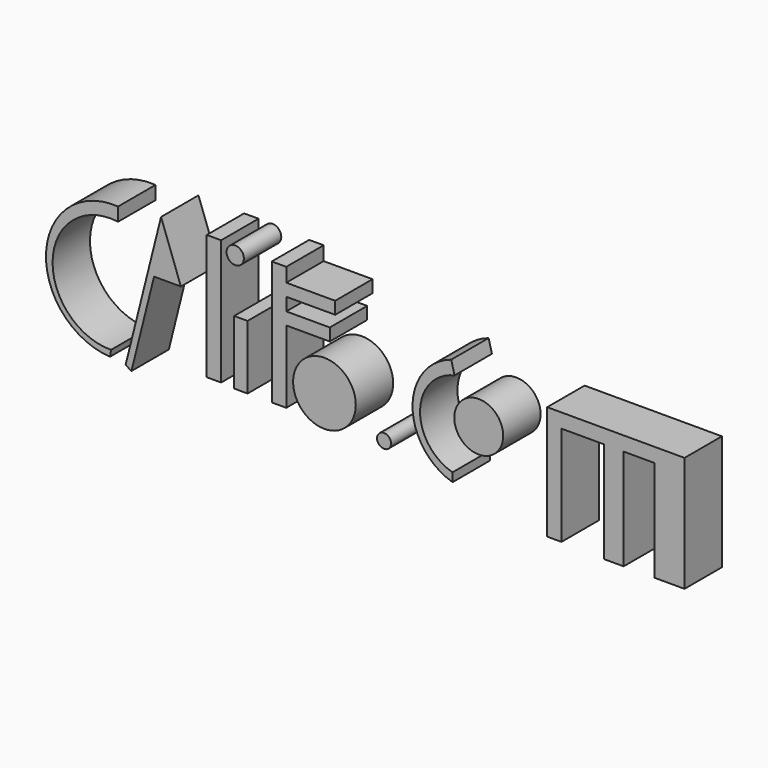
from build123d import *

# Parameters (mm, degrees)
F1_DEPTH = 25.4
F0_W     = 7.8298877925
F0_H     = 68.0653508753
F0_R     = 4.7084777796
F0_W_2   = 7.884208113
F0_H_2   = 7.592190057
F0_H_3   = 6.7161675543
F0_H_4   = 7.0081744343
F0_H_5   = 6.7261058703
F0_R_2   = 17.0200115099
F2_R     = 3.8073110524
F3_DEPTH = 25.4
F2_R_2   = 13.2954407617
F2_W     = 23.2299566269
F2_H     = 7.7433204278
F2_W_2   = 16.1905884743
F2_H_2   = 54.9071850255


with BuildPart() as f1:
    # F0 (on Front) → F1 (new body)
    with BuildSketch(Plane.XZ):
        with BuildLine():
            Line((-27.8866961598, 34.3108586967), (-27.8866961598, 41.6110418737))
            ThreePointArc((-27.8866961598, 41.6110418737), (-67.0002469524, 7.1707083067), (-32.2668068111, -31.682793051))
            Line((-32.2668068111, -31.682793051), (-31.682793051, -28.1787049025))
            ThreePointArc((-31.682793051, -28.1787049025), (-63.4111898789, 5.1088059067), (-27.8866961598, 34.3108586967))
        make_face()
    extrude(amount=F1_DEPTH)


with BuildPart() as f1b:
    # F0 (on Front) → F1, piece 2 (new body)
    with BuildSketch(Plane.XZ):
        Polygon((6.2506846873, 14.4444245979), (-4.5261150226, 44.2391037941), (-11.9747848216, 14.4444245979), (-8.3222091198, 14.4444245979), (0, 14.4444245979), align=None)
        Polygon((-8.3222091198, 14.4444245979), (-11.9747848216, 14.4444245979), (-23.7985961139, -32.8508205712), (-20.6185314836, -34.7408648572), align=None)
    extrude(amount=F1_DEPTH)


with BuildPart() as f1c:
    # F0 (on Front) → F1, piece 3 (new body)
    with BuildSketch(Plane.XZ):
        with Locations((24.209449999, 9.6500674263)):
            Rectangle(F0_W, F0_H)
    extrude(amount=F1_DEPTH)


with BuildPart() as f1d:
    # F0 (on Front) → F1, piece 4 (new body)
    with BuildSketch(Plane.XZ):
        Polygon((42.4870625138, 9.7822444513), (35.1868793368, 9.7822444513), (35.1868793368, -24.3826080114), (35.1868793368, -24.9666236341), (42.4870625138, -24.9666236341), align=None)
    extrude(amount=F1_DEPTH)


with BuildPart() as f1e:
    # F0 (on Front) → F1, piece 5 (new body)
    with BuildSketch(Plane.XZ):
        with Locations((35.7708968222, 38.982976228)):
            Circle(F0_R)
    extrude(amount=F1_DEPTH)


with BuildPart() as f1f:
    # F0 (on Front) → F1, piece 6 (new body)
    with BuildSketch(Plane.XZ):
        with Locations((59.5694910735, 38.6909674853)):
            Rectangle(F0_W_2, F0_H_2)
        with Locations((59.5694910735, 31.5367886797)):
            Rectangle(F0_W_2, F0_H_3)
        with Locations((59.5694910735, 24.6746176854)):
            Rectangle(F0_W_2, F0_H_4)
        Polygon((75.775898993, 34.8948724568), (63.51159513, 34.8948724568), (63.51159513, 28.1787049025), (90.0842547417, 28.1787049025), (90.0842547417, 34.8948724568), align=None)
        with Locations((59.5694910735, 17.8074775331)):
            Rectangle(F0_W_2, F0_H_5)
        Polygon((63.51159513, 14.4444245979), (55.627387017, 14.4444245979), (55.627387017, -22.6305667311), (55.627387017, -24.9666236341), (63.51159513, -24.9666236341), align=None)
        Polygon((77.2359371185, 21.1705304682), (63.51159513, 21.1705304682), (63.51159513, 14.4444245979), (87.1641784906, 14.4444245979), (87.1641784906, 21.1705304682), align=None)
    extrude(amount=F1_DEPTH)


with BuildPart() as f1g:
    # F0 (on Front) → F1, piece 7 (new body)
    with BuildSketch(Plane.XZ):
        with Locations((84.2580720782, -11.2935425714)):
            Circle(F0_R_2)
    extrude(amount=F1_DEPTH)


with BuildPart() as f3:
    # F2 (on Front) → F3 (new body)
    with BuildSketch(Plane.XZ):
        with Locations((116.6396513581, -23.5065873712)):
            Circle(F2_R)
    extrude(amount=F3_DEPTH)


with BuildPart() as f3b:
    # F2 (on Front) → F3, piece 2 (new body)
    with BuildSketch(Plane.XZ):
        with BuildLine():
            Line((154.9598276615, 20.2961266041), (153.1352847815, 27.2293761373))
            ThreePointArc((153.1352847815, 27.2293761373), (132.1188694246, -2.2305181695), (153.8650989532, -31.1558805406))
            Line((153.8650989532, -31.1558805406), (153.8650989532, -26.4120791107))
            ThreePointArc((153.8650989532, -26.4120791107), (136.2118550036, -2.6313974946), (154.9598276615, 20.2961266041))
        make_face()
    extrude(amount=F3_DEPTH)


with BuildPart() as f3c:
    # F2 (on Front) → F3, piece 3 (new body)
    with BuildSketch(Plane.XZ):
        with Locations((168.0965125561, 0)):
            Circle(F2_R_2)
    extrude(amount=F3_DEPTH)


with BuildPart() as f3d:
    # F2 (on Front) → F3, piece 4 (new body)
    with BuildSketch(Plane.XZ):
        Polygon((213.0408883095, 21.4673504233), (205.2975445986, 21.4673504233), (205.2975445986, -40.4792129993), (213.0408883095, -40.4792129993), (213.0408883095, 13.7240299955), align=None)
        with Locations((224.6558666229, 17.5956902094)):
            Rectangle(F2_W, F2_H)
        Polygon((246.8299120665, 21.4673504233), (236.2708449364, 21.4673504233), (236.2708449364, 13.7240299955), (236.2708449364, -41.18315503), (246.8299120665, -41.18315503), (246.8299120665, 13.7240299955), align=None)
        Polygon((279.9150049686, 21.4673504233), (246.8299120665, 21.4673504233), (246.8299120665, 13.7240299955), (263.7244164944, 13.7240299955), (279.9150049686, 13.7240299955), align=None)
        with Locations((271.8197107315, -13.7295625173)):
            Rectangle(F2_W_2, F2_H_2)
    extrude(amount=F3_DEPTH)


solid = Compound([f1.part, f1b.part, f1c.part, f1d.part, f1e.part, f1f.part, f1g.part, f3.part, f3b.part, f3c.part, f3d.part])
